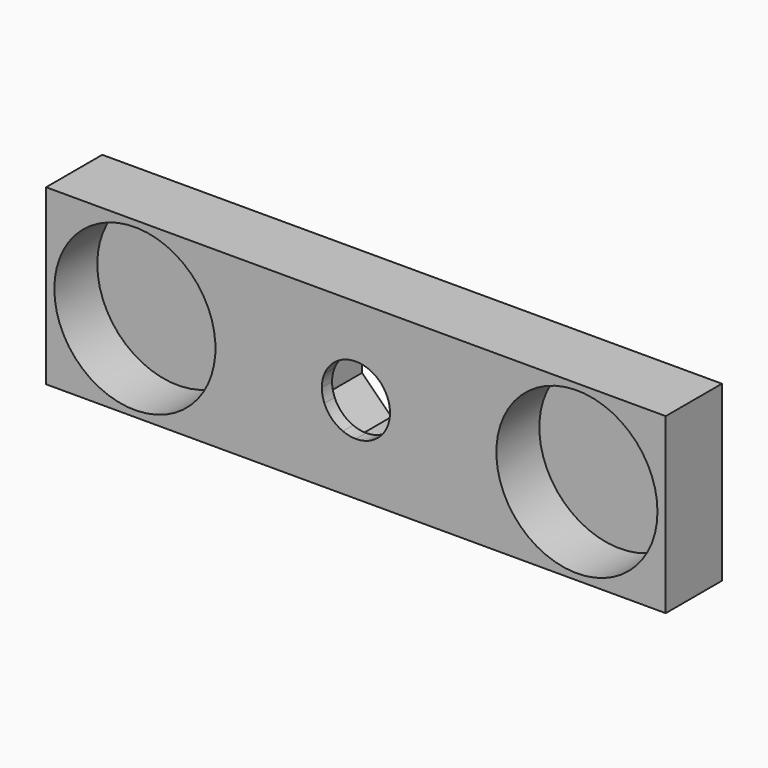
from build123d import *

# Parameters (mm, degrees)
F1_DEPTH = 13.9
F2_DEPTH = 25
F3_R     = 19.5
F4_DEPTH = 17
F6_DEPTH = 20.74372


with BuildPart() as f1:
    # F0 (on Front) → F1 (new body)
    with BuildSketch(Plane.XZ):
        with BuildLine():
            Line((5.0119841047, 12.1), (3.157138317, 7.6220061432))
            ThreePointArc((3.157138317, 7.6220061432), (5.8336309448, 5.8336309448), (7.6220061432, 3.157138317))
            Line((7.6220061432, 3.157138317), (12.1, 5.0119841047))
            Line((12.1, 5.0119841047), (5.0119841047, 12.1))
        make_face()
        with BuildLine():
            Line((0, 12.1), (0, 8.25))
            ThreePointArc((0, 8.25), (1.6094951566, 8.0914785633), (3.157138317, 7.6220061432))
            Line((3.157138317, 7.6220061432), (5.0119841047, 12.1))
            Line((5.0119841047, 12.1), (0, 12.1))
        make_face()
        with BuildLine():
            ThreePointArc((-3.157138317, 7.6220061432), (-1.6094951566, 8.0914785633), (0, 8.25))
            Line((0, 8.25), (0, 12.1))
            Line((0, 12.1), (-5.0119841047, 12.1))
            Line((-5.0119841047, 12.1), (-3.157138317, 7.6220061432))
        make_face()
        with BuildLine():
            ThreePointArc((-7.6220061432, 3.157138317), (-5.8336309448, 5.8336309448), (-3.157138317, 7.6220061432))
            Line((-3.157138317, 7.6220061432), (-5.0119841047, 12.1))
            Line((-5.0119841047, 12.1), (-12.1, 5.0119841047))
            Line((-12.1, 5.0119841047), (-7.6220061432, 3.157138317))
        make_face()
        with BuildLine():
            ThreePointArc((-3.157138317, -7.6220061432), (-5.8336309448, -5.8336309448), (-7.6220061432, -3.157138317))
            Line((-7.6220061432, -3.157138317), (-12.1, -5.0119841047))
            Line((-12.1, -5.0119841047), (-5.0119841047, -12.1))
            Line((-5.0119841047, -12.1), (-3.157138317, -7.6220061432))
        make_face()
        with BuildLine():
            ThreePointArc((-7.6220061432, -3.157138317), (-8.0914785633, -1.6094951566), (-8.25, 0))
            Line((-8.25, 0), (-12.1, 0))
            Line((-12.1, 0), (-12.1, -5.0119841047))
            Line((-12.1, -5.0119841047), (-7.6220061432, -3.157138317))
        make_face()
        with BuildLine():
            Line((-12.1, 0), (-8.25, 0))
            ThreePointArc((-8.25, 0), (-8.0914785633, 1.6094951566), (-7.6220061432, 3.157138317))
            Line((-7.6220061432, 3.157138317), (-12.1, 5.0119841047))
            Line((-12.1, 5.0119841047), (-12.1, 0))
        make_face()
        with BuildLine():
            Line((0, -12.1), (0, -8.25))
            ThreePointArc((0, -8.25), (-1.6094951566, -8.0914785633), (-3.157138317, -7.6220061432))
            Line((-3.157138317, -7.6220061432), (-5.0119841047, -12.1))
            Line((-5.0119841047, -12.1), (0, -12.1))
        make_face()
        with BuildLine():
            ThreePointArc((3.157138317, -7.6220061432), (1.6094951566, -8.0914785633), (0, -8.25))
            Line((0, -8.25), (0, -12.1))
            Line((0, -12.1), (5.0119841047, -12.1))
            Line((5.0119841047, -12.1), (3.157138317, -7.6220061432))
        make_face()
        with BuildLine():
            ThreePointArc((7.6220061432, -3.157138317), (5.8336309448, -5.8336309448), (3.157138317, -7.6220061432))
            Line((3.157138317, -7.6220061432), (5.0119841047, -12.1))
            Line((5.0119841047, -12.1), (12.1, -5.0119841047))
            Line((12.1, -5.0119841047), (7.6220061432, -3.157138317))
        make_face()
        with BuildLine():
            Line((12.1, 0), (8.25, 0))
            ThreePointArc((8.25, 0), (8.0914785633, -1.6094951566), (7.6220061432, -3.157138317))
            Line((7.6220061432, -3.157138317), (12.1, -5.0119841047))
            Line((12.1, -5.0119841047), (12.1, 0))
        make_face()
        with BuildLine():
            ThreePointArc((7.6220061432, 3.157138317), (8.0914785633, 1.6094951566), (8.25, 0))
            Line((8.25, 0), (12.1, 0))
            Line((12.1, 0), (12.1, 5.0119841047))
            Line((12.1, 5.0119841047), (7.6220061432, 3.157138317))
        make_face()
    extrude(amount=F1_DEPTH)


with BuildPart() as f2:
    # F0 (on Front) → F2 (new body)
    with BuildSketch(Plane.XZ):
        with BuildLine():
            Line((3.157138317, 7.6220061432), (0, 0))
            Line((0, 0), (7.6220061432, 3.157138317))
            ThreePointArc((7.6220061432, 3.157138317), (5.8336309448, 5.8336309448), (3.157138317, 7.6220061432))
        make_face()
        with BuildLine():
            Line((0, 8.25), (0, 0))
            Line((0, 0), (3.157138317, 7.6220061432))
            ThreePointArc((3.157138317, 7.6220061432), (1.6094951566, 8.0914785633), (0, 8.25))
        make_face()
        with BuildLine():
            Line((-3.157138317, 7.6220061432), (0, 0))
            Line((0, 0), (0, 8.25))
            ThreePointArc((0, 8.25), (-1.6094951566, 8.0914785633), (-3.157138317, 7.6220061432))
        make_face()
        with BuildLine():
            Line((-7.6220061432, 3.157138317), (0, 0))
            Line((0, 0), (-3.157138317, 7.6220061432))
            ThreePointArc((-3.157138317, 7.6220061432), (-5.8336309448, 5.8336309448), (-7.6220061432, 3.157138317))
        make_face()
        with BuildLine():
            Line((-8.25, 0), (0, 0))
            Line((0, 0), (-7.6220061432, 3.157138317))
            ThreePointArc((-7.6220061432, 3.157138317), (-8.0914785633, 1.6094951566), (-8.25, 0))
        make_face()
        with BuildLine():
            Line((-7.6220061432, -3.157138317), (0, 0))
            Line((0, 0), (-8.25, 0))
            ThreePointArc((-8.25, 0), (-8.0914785633, -1.6094951566), (-7.6220061432, -3.157138317))
        make_face()
        with BuildLine():
            Line((-3.157138317, -7.6220061432), (0, 0))
            Line((0, 0), (-7.6220061432, -3.157138317))
            ThreePointArc((-7.6220061432, -3.157138317), (-5.8336309448, -5.8336309448), (-3.157138317, -7.6220061432))
        make_face()
        with BuildLine():
            Line((0, -8.25), (0, 0))
            Line((0, 0), (-3.157138317, -7.6220061432))
            ThreePointArc((-3.157138317, -7.6220061432), (-1.6094951566, -8.0914785633), (0, -8.25))
        make_face()
        with BuildLine():
            Line((3.157138317, -7.6220061432), (0, 0))
            Line((0, 0), (0, -8.25))
            ThreePointArc((0, -8.25), (1.6094951566, -8.0914785633), (3.157138317, -7.6220061432))
        make_face()
        with BuildLine():
            Line((7.6220061432, -3.157138317), (0, 0))
            Line((0, 0), (3.157138317, -7.6220061432))
            ThreePointArc((3.157138317, -7.6220061432), (5.8336309448, -5.8336309448), (7.6220061432, -3.157138317))
        make_face()
        with BuildLine():
            Line((8.25, 0), (0, 0))
            Line((0, 0), (7.6220061432, -3.157138317))
            ThreePointArc((7.6220061432, -3.157138317), (8.0914785633, -1.6094951566), (8.25, 0))
        make_face()
        with BuildLine():
            Line((7.6220061432, 3.157138317), (0, 0))
            Line((0, 0), (8.25, 0))
            ThreePointArc((8.25, 0), (8.0914785633, 1.6094951566), (7.6220061432, 3.157138317))
        make_face()
    extrude(amount=F2_DEPTH)


with BuildPart() as f4:
    # F3 (on Front) → F4 (new body)
    with BuildSketch(Plane.XZ):
        Polygon((75, 21), (-75, 21), (-75, 0), (-75, -21), (75, -21), (75, 0), align=None)
        with BuildLine():
            ThreePointArc((-34, 0), (-53.5, -19.5), (-73, 0))
            ThreePointArc((-73, 0), (-53.5, 19.5), (-34, 0))
        make_face(mode=Mode.SUBTRACT)
        with Locations((53.5, 0)):
            Circle(F3_R, mode=Mode.SUBTRACT)
        with BuildLine():
            ThreePointArc((-34, 0), (-53.5, 19.5), (-73, 0))
            ThreePointArc((-73, 0), (-53.5, -19.5), (-34, 0))
        make_face()
        with Locations((53.5, 0)):
            Circle(F3_R)
    extrude(amount=F4_DEPTH)

    # F5: cut F2, F1
    add(f2.part, mode=Mode.SUBTRACT)
    add(f1.part, mode=Mode.SUBTRACT)


with BuildPart() as f6:
    # F3 (on Front) → F6 (new body)
    with BuildSketch(Plane.XZ):
        with BuildLine():
            ThreePointArc((-34, 0), (-53.5, 19.5), (-73, 0))
            ThreePointArc((-73, 0), (-53.5, -19.5), (-34, 0))
        make_face()
    extrude(amount=F6_DEPTH)


with BuildPart() as f6b:
    # F3 (on Front) → F6, piece 2 (new body)
    with BuildSketch(Plane.XZ):
        with Locations((53.5, 0)):
            Circle(F3_R)
    extrude(amount=F6_DEPTH)


with BuildPart() as f6_1:
    # F7: moved
    add(f6.part.moved(Location((0, -4, 0))))


with BuildPart() as f6b_1:
    # F7: moved
    add(f6b.part.moved(Location((0, -4, 0))))


with BuildPart() as f4_1:
    add(f4.part)

    # F8: cut F6, F6b
    add(f6_1.part, mode=Mode.SUBTRACT)
    add(f6b_1.part, mode=Mode.SUBTRACT)


solid = f4_1.part
